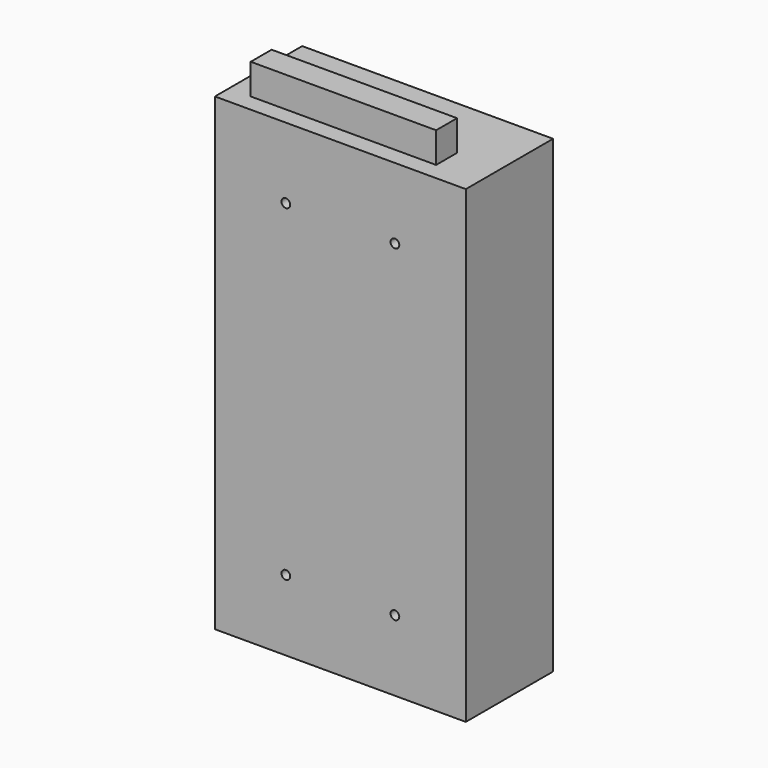
from build123d import *

# Parameters (mm, degrees)
F0_W     = 115
F0_H     = 215
F1_DEPTH = 50
F2_W     = 85
F2_H     = 12
F3_DEPTH = 14
F4_R     = 2
F5_DEPTH = 5
F6_R     = 2
F7_DEPTH = 5


with BuildPart() as f1:
    # F0 (on Front) → F1 (new body)
    with BuildSketch(Plane.XZ):
        with Locations((57.5, 107.5)):
            Rectangle(F0_W, F0_H)
    extrude(amount=F1_DEPTH)

    # F2 (on face) → F3 (join)
    with BuildSketch(Plane.XY.offset(215)):
        with Locations((52.5, -36)):
            Rectangle(F2_W, F2_H)
    extrude(amount=F3_DEPTH)

    # F4 (on face) → F5 (cut)
    with BuildSketch(Plane.XZ.offset(50)):
        with Locations((32.5, 182.5)):
            Circle(F4_R)
        with Locations((82.5, 182.5)):
            Circle(F4_R)
        with Locations((82.5, 32.5)):
            Circle(F4_R)
        with Locations((32.5, 32.5)):
            Circle(F4_R)
    extrude(amount=-F5_DEPTH, mode=Mode.SUBTRACT)

    # F6 (on face) → F7 (cut)
    with BuildSketch(Plane(origin=(0, 0, 0), x_dir=(0, -1, 0), z_dir=(-1, 0, 0))):
        with Locations((12.5, 182.5)):
            Circle(F6_R)
        with Locations((37.5, 182.5)):
            Circle(F6_R)
        with Locations((37.5, 32.5)):
            Circle(F6_R)
        with Locations((12.5, 32.5)):
            Circle(F6_R)
    extrude(amount=-F7_DEPTH, mode=Mode.SUBTRACT)


solid = f1.part
